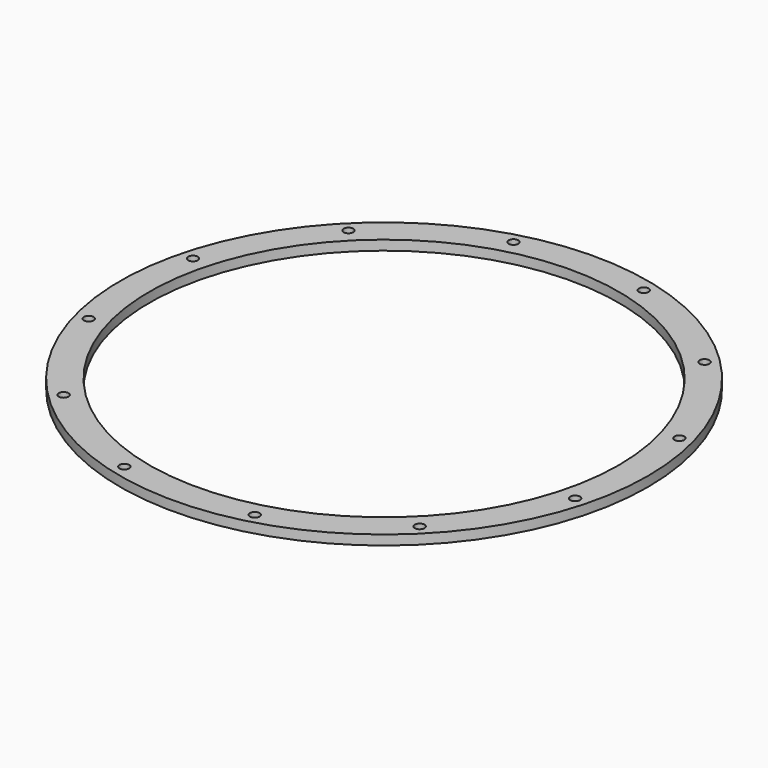
from build123d import *

# Parameters (mm, degrees)
F0_R     = 344.4875
F0_R_2   = 6.35
F0_R_3   = 306.3875
F1_DEPTH = 12.7


with BuildPart() as f1:
    # F0 (on Top) → F1 (new body)
    with BuildSketch(Plane.XY):
        Circle(F0_R)
        with Locations((-232.364127, -232.364127)):
            Circle(F0_R_2, mode=Mode.SUBTRACT)
        with Locations((-85.051173, -317.415301)):
            Circle(F0_R_2, mode=Mode.SUBTRACT)
        with Locations((-317.415301, -85.051173)):
            Circle(F0_R_2, mode=Mode.SUBTRACT)
        with Locations((85.051173, -317.415301)):
            Circle(F0_R_2, mode=Mode.SUBTRACT)
        with Locations((232.364127, -232.364127)):
            Circle(F0_R_2, mode=Mode.SUBTRACT)
        with Locations((317.415301, -85.051173)):
            Circle(F0_R_2, mode=Mode.SUBTRACT)
        with Locations((-317.415301, 85.051173)):
            Circle(F0_R_2, mode=Mode.SUBTRACT)
        with Locations((-232.364127, 232.364127)):
            Circle(F0_R_2, mode=Mode.SUBTRACT)
        with Locations((-85.051173, 317.415301)):
            Circle(F0_R_2, mode=Mode.SUBTRACT)
        Circle(F0_R_3, mode=Mode.SUBTRACT)
        with Locations((317.415301, 85.051173)):
            Circle(F0_R_2, mode=Mode.SUBTRACT)
        with Locations((85.051173, 317.415301)):
            Circle(F0_R_2, mode=Mode.SUBTRACT)
        with Locations((232.364127, 232.364127)):
            Circle(F0_R_2, mode=Mode.SUBTRACT)
    extrude(amount=F1_DEPTH)


solid = f1.part
